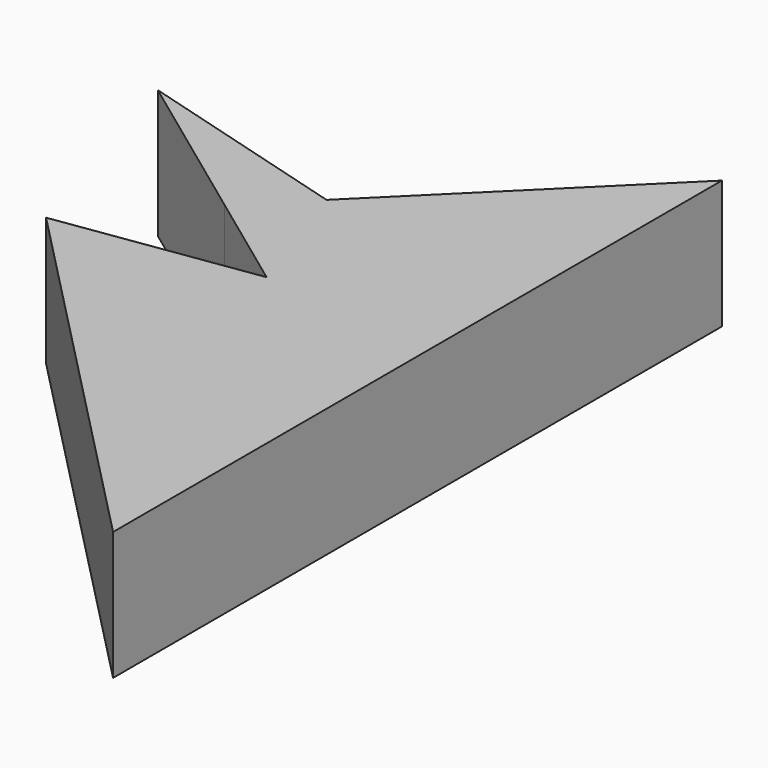
from build123d import *

# Parameters (mm, degrees)
F1_DEPTH = 25.4


with BuildPart() as f1:
    # F0 (on Top) → F1 (new body)
    with BuildSketch(Plane.XY):
        Polygon((-11.6460118443, 43.6722375453), (20.3620182707, 20.1480132985), (31.6143950059, 31.2821274658), align=None)
        Polygon((75.2486810088, 74.4578167796), (31.6143950059, 31.2821274658), (54.9272783101, 24.60514009), (40.5425727367, 5.3163636476), (1.5286983689, -0.4096143239), (75.2486810088, -76.0029926896), align=None)
        Polygon((31.6143950059, 31.2821274658), (20.3620182707, 20.1480132985), (40.5425727367, 5.3163636476), (54.9272783101, 24.60514009), align=None)
    extrude(amount=-F1_DEPTH)


solid = f1.part
